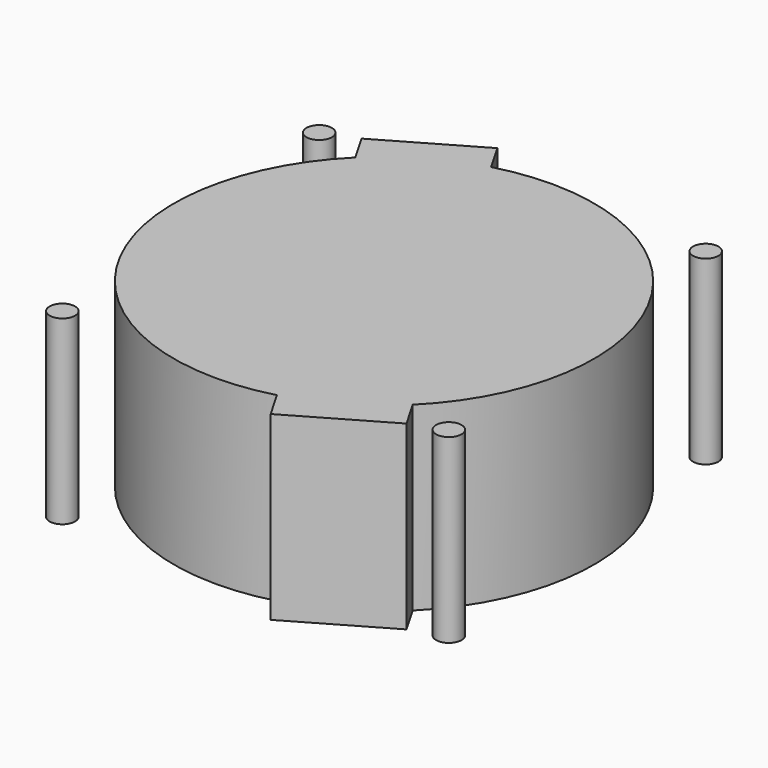
from build123d import *

# Parameters (mm, degrees)
F1_DEPTH = 12.5
F0_R     = 1.75


with BuildPart() as f1:
    # F0 (on Top) → F1 (new body, symmetric)
    with BuildSketch(Plane.XY):
        with BuildLine():
            Line((20.4285737227, -20.5833276138), (-7.6113977467, 27.9833276138))
            ThreePointArc((-7.6113977467, 27.9833276138), (-14.5, 25.1147367097), (-20.4285737227, 20.5833276138))
            Line((-20.4285737227, 20.5833276138), (7.6113977467, -27.9833276138))
            ThreePointArc((7.6113977467, -27.9833276138), (14.5, -25.1147367097), (20.4285737227, -20.5833276138))
        make_face()
        with BuildLine():
            ThreePointArc((20.4285737227, -20.5833276138), (26.7715206699, -11.1483488025), (29, 0))
            ThreePointArc((29, 0), (17.6106425968, 23.0405136081), (-7.6113977467, 27.9833276138))
            Line((-7.6113977467, 27.9833276138), (20.4285737227, -20.5833276138))
        make_face()
        with BuildLine():
            Line((22.658587988, -24.445825623), (20.4285737227, -20.5833276138))
            ThreePointArc((20.4285737227, -20.5833276138), (14.5, -25.1147367097), (7.6113977467, -27.9833276138))
            Line((7.6113977467, -27.9833276138), (9.841412012, -31.845825623))
            Line((9.841412012, -31.845825623), (22.658587988, -24.445825623))
        make_face()
        with BuildLine():
            ThreePointArc((-20.4285737227, 20.5833276138), (-14.5, 25.1147367097), (-7.6113977467, 27.9833276138))
            Line((-7.6113977467, 27.9833276138), (-9.841412012, 31.845825623))
            Line((-9.841412012, 31.845825623), (-22.658587988, 24.445825623))
            Line((-22.658587988, 24.445825623), (-20.4285737227, 20.5833276138))
        make_face()
        with BuildLine():
            Line((7.6113977467, -27.9833276138), (-20.4285737227, 20.5833276138))
            ThreePointArc((-20.4285737227, 20.5833276138), (-25.1147367097, -14.5), (7.6113977467, -27.9833276138))
        make_face()
    extrude(amount=F1_DEPTH, both=True)


with BuildPart() as f1b:
    # F0 (on Top) → F1, piece 2 (new body, symmetric)
    with BuildSketch(Plane.XY):
        with Locations((27.1, -22.7)):
            Circle(F0_R)
    extrude(amount=F1_DEPTH, both=True)


with BuildPart() as f1c:
    # F0 (on Top) → F1, piece 3 (new body, symmetric)
    with BuildSketch(Plane.XY):
        with Locations((22.7, 27.1)):
            Circle(F0_R)
    extrude(amount=F1_DEPTH, both=True)


with BuildPart() as f1d:
    # F0 (on Top) → F1, piece 4 (new body, symmetric)
    with BuildSketch(Plane.XY):
        with Locations((-27.1, 22.7)):
            Circle(F0_R)
    extrude(amount=F1_DEPTH, both=True)


with BuildPart() as f1e:
    # F0 (on Top) → F1, piece 5 (new body, symmetric)
    with BuildSketch(Plane.XY):
        with Locations((-22.7, -27.1)):
            Circle(F0_R)
    extrude(amount=F1_DEPTH, both=True)


solid = Compound([f1.part, f1b.part, f1c.part, f1d.part, f1e.part])
